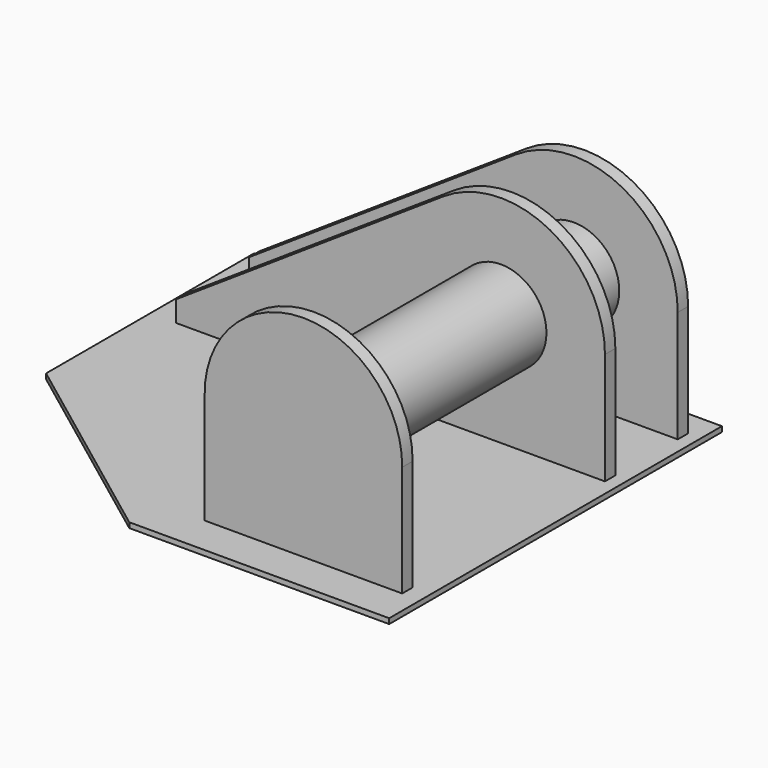
from build123d import *

# Parameters (mm, degrees)
F4_DEPTH  = 10
F5_DEPTH  = 25
F8_DEPTH  = 25
F9_R      = 87.5
F10_DEPTH = 650


with BuildPart() as f4:
    # F0 (on Top) → F4 (new body)
    with BuildSketch(Plane.XY):
        Polygon((900, 0), (0, 0), (0, -500), (400, -800), (900, -800), align=None)
    extrude(amount=F4_DEPTH)

    # F3 (on offset) → F8 (join)
    with BuildSketch(Plane.XZ.offset(700)):
        with BuildLine():
            Line((864.9955457431, 0), (864.9955457431, 223.6990012303))
            ThreePointArc((864.9955457431, 223.6990012303), (673.9888114785, 414.9973091856), (485.0290649374, 221.6767739387))
            Line((485.0290649374, 221.6767739387), (485.0290649374, 0))
            Line((485.0290649374, 0), (864.9955457431, 0))
        make_face()
    extrude(amount=F8_DEPTH)



with BuildPart() as f5:
    # F1 (on Front) → F5 (new body)
    with BuildSketch(Plane.XZ):
        with BuildLine():
            Line((50, 50), (50, 0))
            Line((50, 0), (875, 0))
            Line((875, 0), (875, 225))
            ThreePointArc((875, 225), (769.5256396076, 401.2523856768), (564.3509654323, 391.6036948847))
            Line((564.3509654323, 391.6036948847), (50, 50))
        make_face()
    extrude(amount=F5_DEPTH)


with BuildPart() as f5_1:
    # F6: moved
    add(f5.part.moved(Location((0, -50, 0))))


with BuildPart() as f7_1:
    # F7: copy of F5
    add(f5_1.part.moved(Location((0, -175, 0))))


with BuildPart() as f4_1:
    add(f4.part)

    add(f5_1.part)  # F10 merges F5

    add(f7_1.part)  # F10 merges F7_1
    # F9 (on offset) → F10 (join, through all)
    with BuildSketch(Plane.XZ.offset(700)):
        with Locations((675, 225)):
            Circle(F9_R)
    extrude(amount=-F10_DEPTH)


solid = f4_1.part
